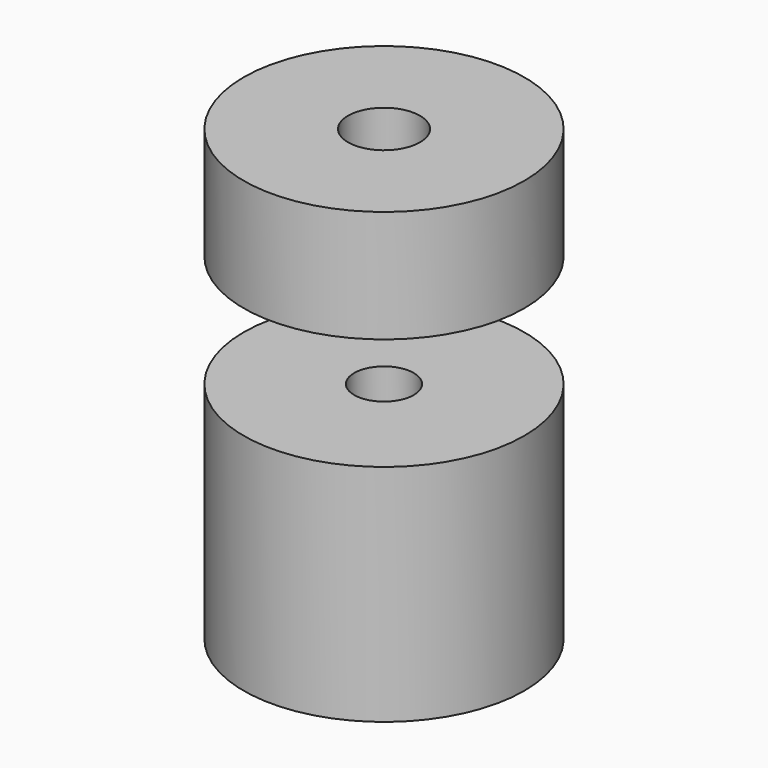
from build123d import *

# Parameters (mm, degrees)
F0_R     = 31.75
F1_DEPTH = 50.8
F2_D     = 8.4328
F4_D     = 13.49248
F4_DEPTH = 32.3272727273
F4_TIP   = 4.0535499425
F6_R     = 31.75
F7_DEPTH = 25.4
F8_D     = 16.2814


with BuildPart() as f1:
    # F0 (on Top) → F1 (new body)
    with BuildSketch(Plane.XY):
        Circle(F0_R)
    extrude(amount=F1_DEPTH)

    # F2 (through all)
    with Locations(Plane(origin=(0, 0, 0), x_dir=(1, 0, 0), z_dir=(0, 0, -1))):
        with Locations((0, 0)):
            Hole(F2_D / 2)

    # F4
    with Locations(Plane.XY.offset(50.8)):
        with Locations((0, 0)):
            Hole(F4_D / 2, depth=F4_DEPTH)
            with Locations((0, 0, -(F4_DEPTH + F4_TIP / 2))):  # 118° drill point
                Cone(0, F4_D / 2, F4_TIP, mode=Mode.SUBTRACT)


with BuildPart() as f7:
    # F6 (on offset) → F7 (new body)
    with BuildSketch(Plane.XY.offset(76.2)):
        Circle(F6_R)
    extrude(amount=F7_DEPTH)

    # F8 (through all)
    with Locations(Plane(origin=(0, 0, 76.2), x_dir=(1, 0, 0), z_dir=(0, 0, -1))):
        with Locations((0, 0)):
            Hole(F8_D / 2)


solid = Compound([f1.part, f7.part])
